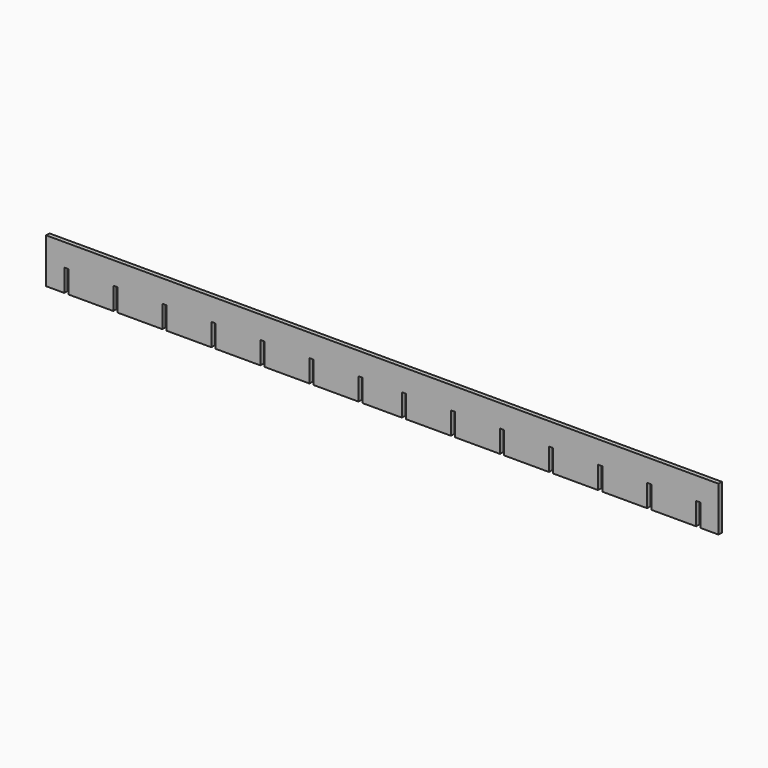
from build123d import *

# Parameters (mm, degrees)
F2_DEPTH = 9.525


with BuildPart() as f2:
    # F1 (on Front) → F2 (new body)
    with BuildSketch(Plane.XZ):
        Polygon((-762, 50.8), (-762, -50.8), (-720.725, -50.8), (-720.725, 0), (-711.2, 0), (-711.2, -50.8), (-609.6, -50.8), (-609.6, 0), (-600.075, 0), (-600.075, -50.8), (-498.475, -50.8), (-498.475, 0), (-488.95, 0), (-488.95, -50.8), (-387.35, -50.8), (-387.35, 0), (-377.825, 0), (-377.825, -50.8), (-276.225, -50.8), (-276.225, 0), (-266.7, 0), (-266.7, -50.8), (-165.1, -50.8), (-165.1, 0), (-155.575, 0), (-155.575, -50.8), (-53.975, -50.8), (-53.975, 0), (-44.45, 0), (-44.45, -50.8), (44.45, -50.8), (44.45, 0), (53.975, 0), (53.975, -50.8), (155.575, -50.8), (155.575, 0), (165.1, 0), (165.1, -50.8), (266.7, -50.8), (266.7, 0), (276.225, 0), (276.225, -50.8), (377.825, -50.8), (377.825, 0), (387.35, 0), (387.35, -50.8), (488.95, -50.8), (488.95, 0), (498.475, 0), (498.475, -50.8), (600.075, -50.8), (600.075, 0), (609.6, 0), (609.6, -50.8), (711.2, -50.8), (711.2, 0), (720.725, 0), (720.725, -50.8), (762, -50.8), (762, 50.8), align=None)
    extrude(amount=F2_DEPTH)


solid = f2.part
